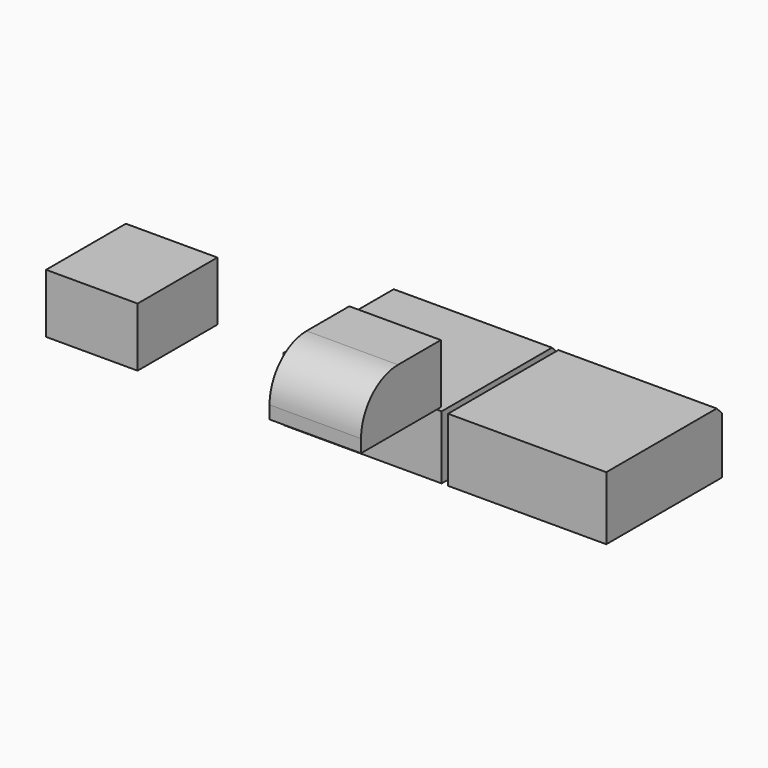
from build123d import *

# Parameters (mm, degrees)
F0_W     = 111.4564239979
F0_H     = 48.9487536252
F1_DEPTH = 122.05722
F2_SIZE  = 5.08
F3_T     = -2.54
F4_W     = 70.5714710057
F4_H     = 45.5832704902
F5_DEPTH = 76.91524
F8_R     = 35.6452114108


with BuildPart() as f1:
    # F0 (on Right) → F1 (new body)
    with BuildSketch(Plane.YZ):
        with Locations((55.7282119989, 24.4743768126)):
            Rectangle(F0_W, F0_H)
    extrude(amount=F1_DEPTH)

    # F2
    f2_edges = [f1.edges().sort_by_distance(p)[0] for p in [
        (61.02861, 111.456424, 48.948754),
    ]]
    chamfer(f2_edges, length=F2_SIZE)

    # F3
    f3_openings = [f1.faces().sort_by_distance(p)[0] for p in [
        (61.02861, 55.728212, 0),
    ]]
    offset(amount=F3_T, openings=f3_openings)


with BuildPart() as f5:
    # F4 (on Front) → F5 (new body)
    with BuildSketch(Plane.XZ):
        with Locations((-86.1650612205, 74.3687786162)):
            Rectangle(F4_W, F4_H)
    extrude(amount=F5_DEPTH)


with BuildPart() as f6_1:
    # F6: instance of F5
    add(f5.part.mirror(Plane.YZ))

    # F8
    f8_edges = [f6_1.edges().sort_by_distance(p)[0] for p in [
        (86.165061, -76.91524, 97.160414),
    ]]
    fillet(f8_edges, radius=F8_R)


with BuildPart() as f7_1:
    # F7: copy of F1
    add(f1.part.moved(Location((127, 0, 0))))


solid = Compound([f1.part, f5.part, f6_1.part, f7_1.part])
